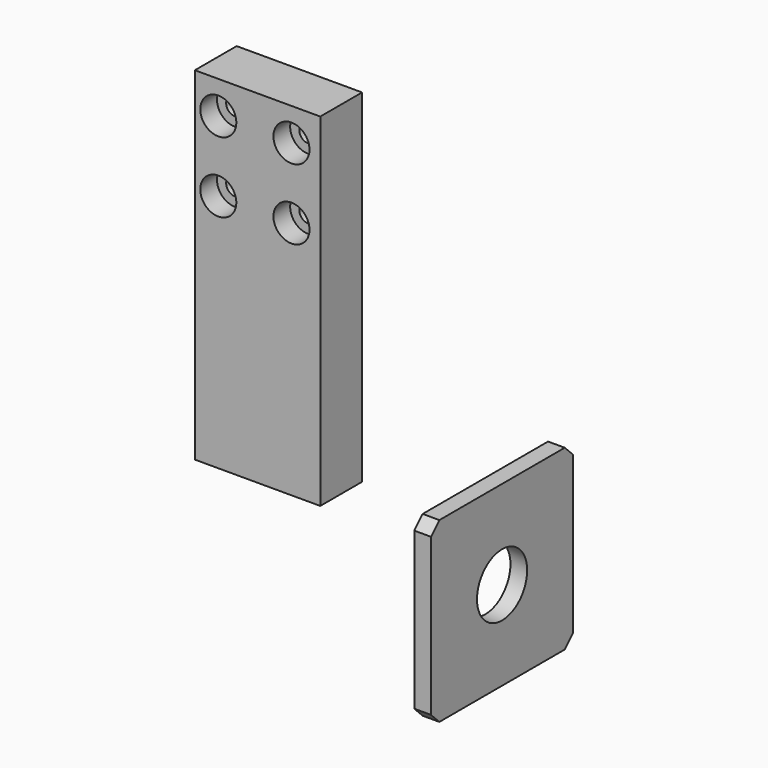
from build123d import *

# Parameters (mm, degrees)
F0_W           = 85
F0_H           = 85
F0_R           = 15
F1_DEPTH       = 8
F2_SIZE        = 5
F3_SIZE        = 5
F4_W           = 60
F4_H           = 164
F5_DEPTH       = 25
F7_D           = 8.5
F7_CBORE_D     = 17.25
F7_CBORE_DEPTH = 10


with BuildPart() as f1:
    # F0 (on Right) → F1 (new body)
    with BuildSketch(Plane.YZ):
        with Locations((42.5, -42.5)):
            Rectangle(F0_W, F0_H)
        with Locations((42.5, -42.5)):
            Circle(F0_R, mode=Mode.SUBTRACT)
    extrude(amount=F1_DEPTH)

    # F2
    f2_edges = [f1.edges().sort_by_distance(p)[0] for p in [
        (4, 85, 0),
    ]]
    chamfer(f2_edges, length=F2_SIZE)

    # F3
    f3_edges = [f1.edges().sort_by_distance(p)[0] for p in [
        (4, 0, 0),
        (4, 0, -85),
        (4, 85, -85),
    ]]
    chamfer(f3_edges, length=F3_SIZE)


with BuildPart() as f5:
    # F4 (on Front) → F5 (new body)
    with BuildSketch(Plane.XZ):
        with Locations((-54.9711163342, 89.4281147681)):
            Rectangle(F4_W, F4_H)
    extrude(amount=F5_DEPTH)

    # F7 (through all)
    with Locations(Plane.XZ.offset(25)):
        with Locations((-73.7542882562, 155.8095365763), (-38.7492962182, 155.8095365763), (-38.7492962182, 122.0852136612), (-73.7542882562, 122.0852136612)):
            CounterBoreHole(F7_D / 2, F7_CBORE_D / 2, F7_CBORE_DEPTH)


solid = Compound([f1.part, f5.part])
